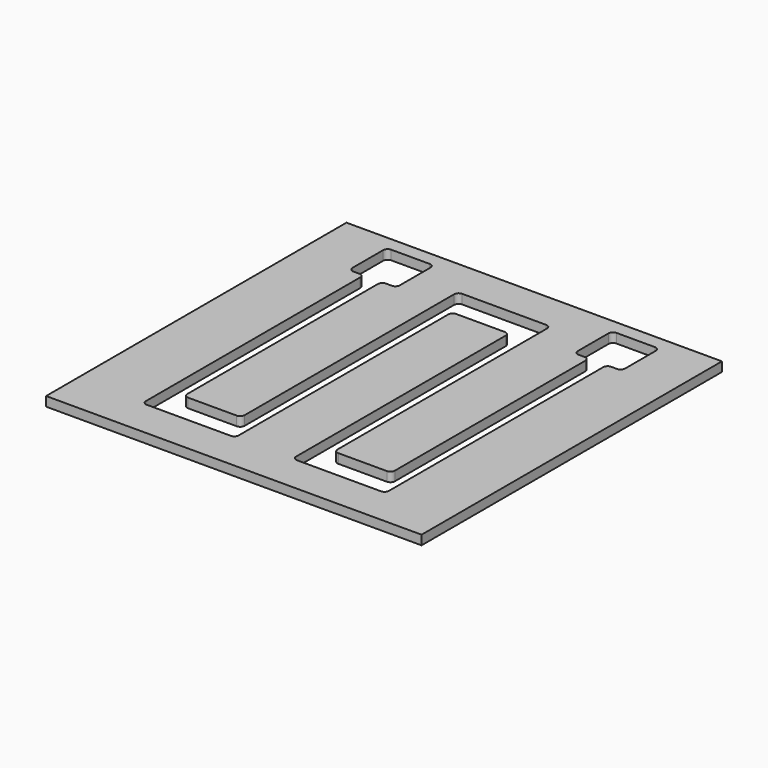
from build123d import *

# Parameters (mm, degrees)
F0_W     = 127
F0_H     = 3.175
F1_DEPTH = 127
F3_DEPTH = 25
F4_R     = 1.5


with BuildPart() as f1:
    # F0 (on Front) → F1 (new body)
    with BuildSketch(Plane.XZ):
        with Locations((63.5, 1.5875)):
            Rectangle(F0_W, F0_H)
    extrude(amount=-F1_DEPTH)

    # F2 (on face) → F3 (cut)
    with BuildSketch(Plane.XY.offset(3.175)):
        Polygon((33.401, 106.299), (33.401, 122.301), (17.399, 122.301), (17.399, 106.299), (22.4, 106.299), (22.4, 12.7), (28.4, 12.7), (47.8, 12.7), (53.8, 12.7), (53.8, 104.3), (73.2, 104.3), (73.2, 12.7), (79.2, 12.7), (98.6, 12.7), (104.6, 12.7), (104.6, 106.299), (109.601, 106.299), (109.601, 122.301), (93.599, 122.301), (93.599, 106.299), (98.6, 106.299), (98.6, 22.7), (79.2, 22.7), (79.2, 114.3), (73.2, 114.3), (53.8, 114.3), (47.8, 114.3), (47.8, 22.7), (28.4, 22.7), (28.4, 106.299), align=None)
    extrude(amount=-F3_DEPTH, mode=Mode.SUBTRACT)

    # F4
    f4_edges = [f1.edges().sort_by_distance(p)[0] for p in [
        (17.399, 122.301, 1.5875),
        (33.401, 122.301, 1.5875),
        (17.399, 106.299, 1.5875),
        (22.4, 106.299, 1.5875),
        (28.4, 106.299, 1.5875),
        (33.401, 106.299, 1.5875),
        (53.8, 104.3, 1.5875),
        (73.2, 104.3, 1.5875),
        (98.6, 106.299, 1.5875),
        (104.6, 106.299, 1.5875),
        (104.6, 12.7, 1.5875),
        (79.2, 22.7, 1.5875),
        (28.4, 22.7, 1.5875),
        (53.8, 12.7, 1.5875),
        (47.8, 22.7, 1.5875),
        (98.6, 22.7, 1.5875),
        (73.2, 12.7, 1.5875),
        (22.4, 12.7, 1.5875),
        (109.601, 122.301, 1.5875),
        (79.2, 114.3, 1.5875),
        (47.8, 114.3, 1.5875),
        (93.599, 122.301, 1.5875),
        (109.601, 106.299, 1.5875),
        (93.599, 106.299, 1.5875),
    ]]
    fillet(f4_edges, radius=F4_R)


solid = f1.part
